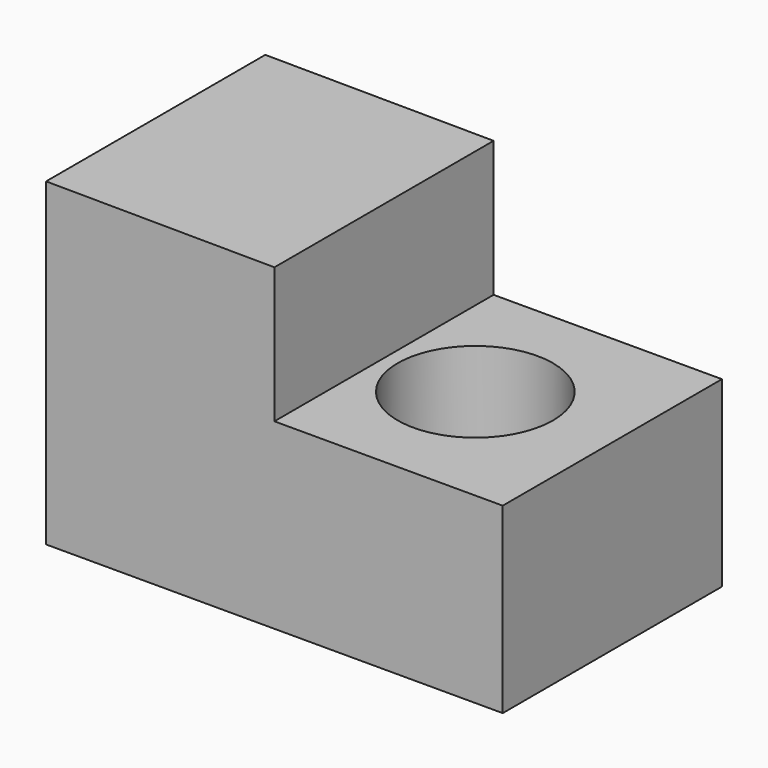
from build123d import *

# Parameters (mm, degrees)
F1_DEPTH = 762
F2_R     = 215.9
F3_DEPTH = 508.001


with BuildPart() as f1:
    # F0 (on Front) → F1 (new body)
    with BuildSketch(Plane.XZ):
        Polygon((579.295597, 110.950105), (-55.692269, 114.875649), (-55.692269, -774.124351), (1214.307731, -774.124351), (1214.307731, -266.124351), (579.295597, -266.124351), align=None)
    extrude(amount=F1_DEPTH)

    # F2 (on face) → F3 (cut, through all)
    with BuildSketch(Plane.XY.offset(-266.124351)):
        with Locations((833.307731, -381)):
            Circle(F2_R)
    extrude(amount=-F3_DEPTH, mode=Mode.SUBTRACT)


solid = f1.part
